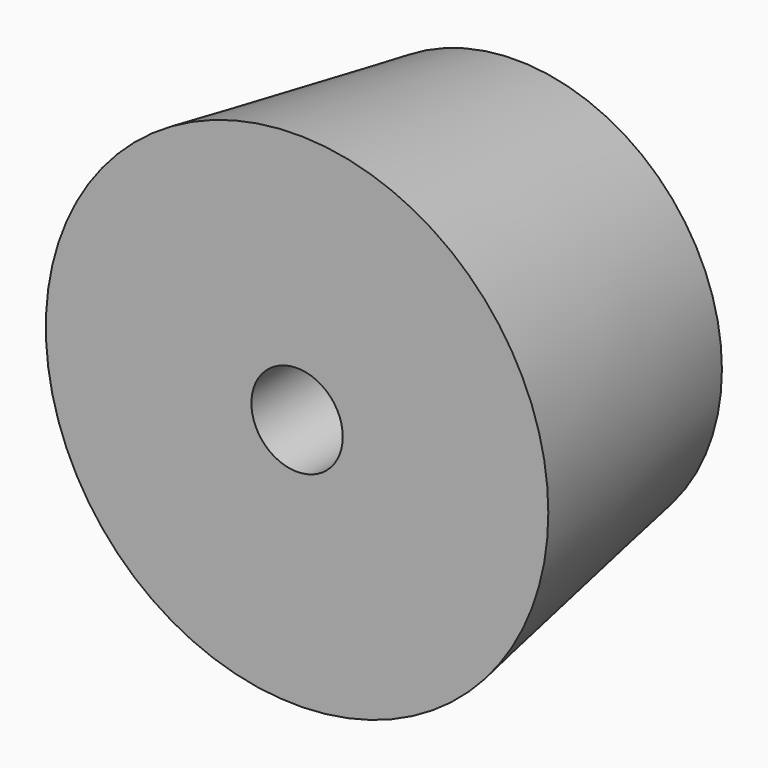
from build123d import *

# Parameters (mm, degrees)
SKETCH001_W     = 9.016991
SKETCH001_H     = 9.88356
PAD_DEPTH       = 0.6
SKETCH002_W     = 4
SKETCH002_H     = 9.325613
POCKET_DEPTH    = 0.3
SKETCH003_W     = 4
SKETCH003_H     = 4
POCKET001_DEPTH = 0.3


with BuildPart() as part:
    # Sketch → Revolution (revolve)
    with BuildSketch(Plane.XY):
        Polygon((2, 7), (4, 7), (4, 12), (9, 12), (11, 0), (2, 0), align=None)
    revolve(axis=Axis((0, 0, 0), (0, 1, 0)))

    # Sketch001 (on Face1 of Revolution) → Pad (new body)
    with BuildSketch(Plane(origin=(0, 7, 0), x_dir=(-1, 0, 0), z_dir=(0, 1, 0))):
        with Locations((0.148778, -0.086759)):
            Rectangle(SKETCH001_W, SKETCH001_H)
    extrude(amount=PAD_DEPTH)

    # Sketch002 (on Face7 of Pad) → Pocket (cut)
    with BuildSketch(Plane(origin=(0, 7.6, 0), x_dir=(-1, 0, 0), z_dir=(0, 1, 0))):
        with Locations((0, -0.25022)):
            Rectangle(SKETCH002_W, SKETCH002_H)
    extrude(amount=-POCKET_DEPTH, mode=Mode.SUBTRACT)

    # Sketch003 (on Face3 of Pocket) → Pocket001 (cut)
    with BuildSketch(Plane.XZ.offset(-7)):
        Rectangle(SKETCH003_W, SKETCH003_H)
    extrude(amount=-POCKET001_DEPTH, mode=Mode.SUBTRACT)


solid = part.part
